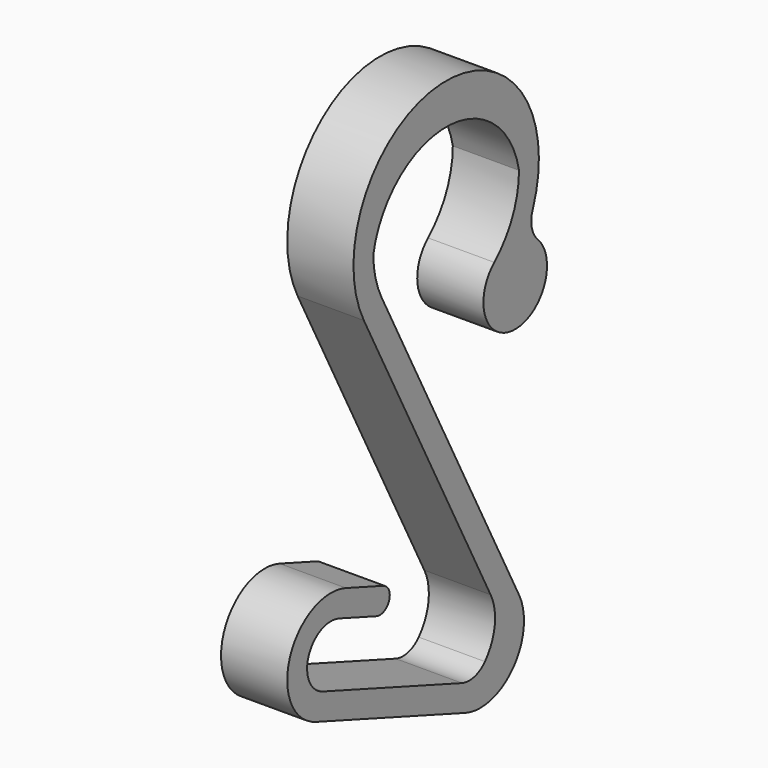
from build123d import *

# Parameters (mm, degrees)
F1_DEPTH = 6.35
F3_DEPTH = 6.35
F4_R     = 5.08
F5_R     = 5.08


with BuildPart() as f1:
    # F0 (on Right) → F1 (new body, symmetric)
    with BuildSketch(Plane.YZ):
        with BuildLine():
            Line((-2.3884117353, 6.5878875691), (-11.3389839483, 9.8456294343))
            ThreePointArc((-11.3389839483, 9.8456294343), (-24.7681294343, 3.5835160517), (-18.5060160517, -9.8456294343))
            Line((-18.5060160517, -9.8456294343), (17.2962728002, -22.876596895))
            ThreePointArc((17.2962728002, -22.876596895), (28.7503201953, -19.9470893959), (30.1830436792, -8.2114803647))
            Line((30.1830436792, -8.2114803647), (-2.8054247121, 55.4675215066))
            ThreePointArc((-2.8054247121, 55.4675215066), (15.9289301948, 80.6613786173), (24.2258585116, 50.3815590934))
            ThreePointArc((24.2258585116, 50.3815590934), (30.7726917058, 37.1897530277), (31.6517846048, 51.8905002135))
            ThreePointArc((31.6517846048, 51.8905002135), (13.495941442, 85.7107429462), (-7.0341769063, 53.2768455539))
            Line((-7.0341769063, 53.2768455539), (25.954291485, -10.4021563174))
            ThreePointArc((25.954291485, -10.4021563174), (25.1728059483, -16.8033976072), (18.9251437328, -18.4013107885))
            Line((18.9251437328, -18.4013107885), (-16.8771451191, -5.3703433278))
            ThreePointArc((-16.8771451191, -5.3703433278), (-20.2928433278, 1.9546451191), (-12.9678548809, 5.3703433278))
            Line((-12.9678548809, 5.3703433278), (-4.0172826679, 2.1126014626))
            ThreePointArc((-4.0172826679, 2.1126014626), (-0.9652041484, 3.5358090496), (-2.3884117353, 6.5878875691))
        make_face()
    extrude(amount=F1_DEPTH, both=True)

    # F2 (on Right) → F3 (join, symmetric)
    with BuildSketch(Plane.YZ):
        with BuildLine():
            Line((25.954291485, -10.4021563174), (23.3565733209, -5.3876737451))
            ThreePointArc((23.3565733209, -5.3876737451), (23.915643926, -12.8393677138), (18.9251437328, -18.4013107885))
            ThreePointArc((18.9251437328, -18.4013107885), (25.1728059483, -16.8033976072), (25.954291485, -10.4021563174))
        make_face()
        with BuildLine():
            ThreePointArc((30.1625, 63.5), (12.7, 80.9625), (-4.7625, 63.5))
            ThreePointArc((-4.7625, 63.5), (12.7, 77.9349299335), (30.1625, 63.5))
        make_face()
    extrude(amount=F3_DEPTH, both=True)

    # F4
    f4_edges = [f1.edges().sort_by_distance(p)[0] for p in [
        (0, 31.651785, 51.8905),
    ]]
    fillet(f4_edges, radius=F4_R)

    # F5
    f5_edges = [f1.edges().sort_by_distance(p)[0] for p in [
        (0, 18.925144, -18.401311),
    ]]
    fillet(f5_edges, radius=F5_R)


solid = f1.part
